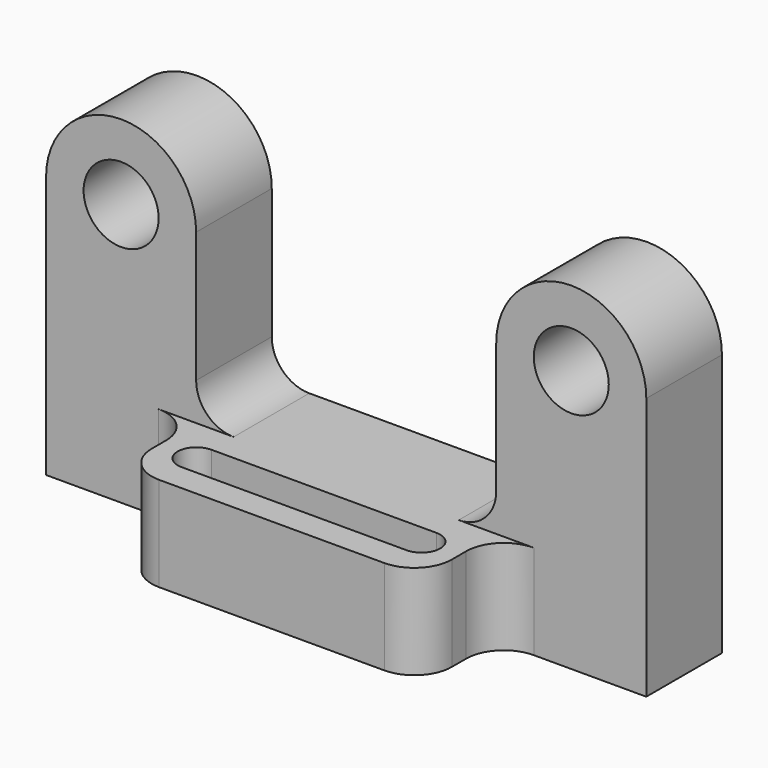
from build123d import *

# Parameters (mm, degrees)
F1_DEPTH = 31.75
F2_W     = 15.748
F2_H     = 28.448
F2_H_2   = 12.7
F3_DEPTH = 101.601
F5_DEPTH = 16.003
F6_R     = 6.35
F7_DEPTH = 16.003
F8_R     = 6.35
F9_DEPTH = 16.003


with BuildPart() as f1:
    # F0 (on Front) → F1 (new body)
    with BuildSketch(Plane.XZ):
        with BuildLine():
            Line((-50.8, 0), (0, 0))
            Line((0, 0), (0, 16.002))
            Line((0, 16.002), (-19.05, 16.002))
            ThreePointArc((-19.05, 16.002), (-23.540128, 17.861872), (-25.4, 22.352))
            Line((-25.4, 22.352), (-25.4, 44.45))
            ThreePointArc((-25.4, 44.45), (-38.1, 57.15), (-50.8, 44.45))
            Line((-50.8, 44.45), (-50.8, 0))
        make_face()
        with BuildLine():
            Line((0, 16.002), (0, 0))
            Line((0, 0), (50.8, 0))
            Line((50.8, 0), (50.8, 44.45))
            ThreePointArc((50.8, 44.45), (38.1, 57.15), (25.4, 44.45))
            Line((25.4, 44.45), (25.4, 22.352))
            ThreePointArc((25.4, 22.352), (23.540128, 17.861872), (19.05, 16.002))
            Line((19.05, 16.002), (0, 16.002))
        make_face()
    extrude(amount=F1_DEPTH)

    # F2 (on face) → F3 (cut, through all)
    with BuildSketch(Plane.YZ.offset(50.8)):
        with Locations((-23.876, 30.226)):
            Rectangle(F2_W, F2_H)
        with Locations((-23.876, 50.8)):
            Rectangle(F2_W, F2_H_2)
    extrude(amount=-F3_DEPTH, mode=Mode.SUBTRACT)

    # F4 (on face) → F5 (cut, through all)
    with BuildSketch(Plane.XY.offset(16.002)):
        with BuildLine():
            Line((-31.75, -16.002), (-50.8, -16.002))
            Line((-50.8, -16.002), (-50.8, -31.75))
            Line((-50.8, -31.75), (-19.05, -31.75))
            ThreePointArc((-19.05, -31.75), (-23.540128, -29.890128), (-25.4, -25.4))
            Line((-25.4, -25.4), (-25.4, -22.352))
            ThreePointArc((-25.4, -22.352), (-27.259872, -17.861872), (-31.75, -16.002))
        make_face()
        with BuildLine():
            ThreePointArc((-19.05, -20.701), (-16.804936, -21.630936), (-15.875, -23.876))
            ThreePointArc((-15.875, -23.876), (-16.804936, -26.121064), (-19.05, -27.051))
            Line((-19.05, -27.051), (19.05, -27.051))
            ThreePointArc((19.05, -27.051), (15.875, -23.876), (19.05, -20.701))
            Line((19.05, -20.701), (-19.05, -20.701))
        make_face()
        with BuildLine():
            ThreePointArc((-19.05, -27.051), (-16.804936, -26.121064), (-15.875, -23.876))
            ThreePointArc((-15.875, -23.876), (-16.804936, -21.630936), (-19.05, -20.701))
            ThreePointArc((-19.05, -20.701), (-22.225, -23.876), (-19.05, -27.051))
        make_face()
        with BuildLine():
            ThreePointArc((22.225, -23.876), (21.295064, -21.630936), (19.05, -20.701))
            Line((19.05, -20.701), (19.05, -27.051))
            ThreePointArc((19.05, -27.051), (21.295064, -26.121064), (22.225, -23.876))
        make_face()
        with BuildLine():
            Line((19.05, -27.051), (19.05, -20.701))
            ThreePointArc((19.05, -20.701), (15.875, -23.876), (19.05, -27.051))
        make_face()
        with BuildLine():
            ThreePointArc((25.4, -25.4), (23.540128, -29.890128), (19.05, -31.75))
            Line((19.05, -31.75), (50.8, -31.75))
            Line((50.8, -31.75), (50.8, -16.002))
            Line((50.8, -16.002), (31.75, -16.002))
            ThreePointArc((31.75, -16.002), (27.259872, -17.861872), (25.4, -22.352))
            Line((25.4, -22.352), (25.4, -25.4))
        make_face()
    extrude(amount=-F5_DEPTH, mode=Mode.SUBTRACT)

    # F6 (on face) → F7 (cut, through all)
    with BuildSketch(Plane.XZ.offset(16.002)):
        with Locations((-38.1, 44.45)):
            Circle(F6_R)
    extrude(amount=-F7_DEPTH, mode=Mode.SUBTRACT)

    # F8 (on face) → F9 (cut, through all)
    with BuildSketch(Plane.XZ.offset(16.002)):
        with Locations((38.1, 44.45)):
            Circle(F8_R)
    extrude(amount=-F9_DEPTH, mode=Mode.SUBTRACT)


solid = f1.part
